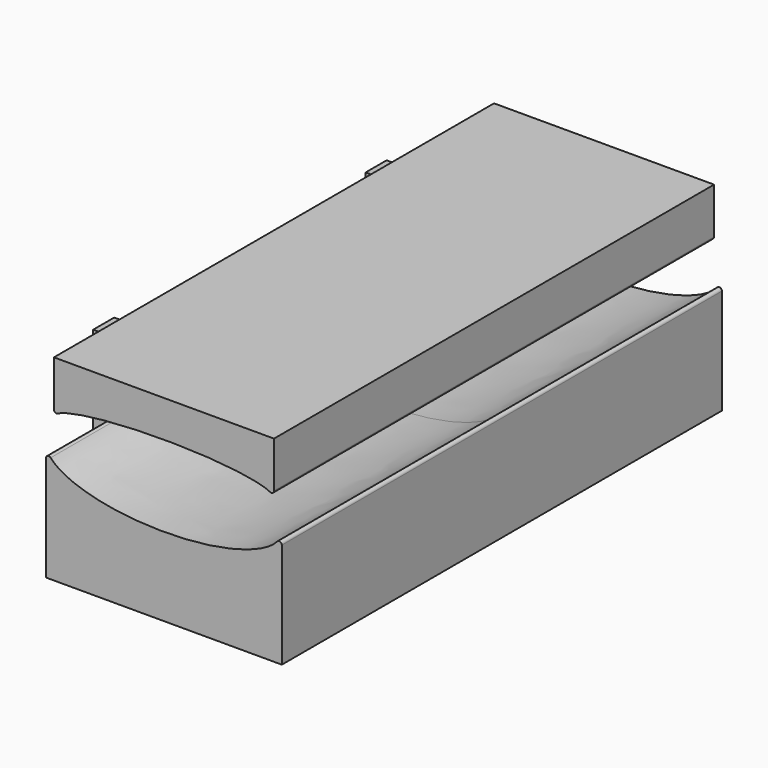
from build123d import *

# Parameters (mm, degrees)
F1_DEPTH      = 1050
F1_DEPTH_BACK = 1050
F2_W          = 100
F2_H          = 256.5368058683
F2_H_2        = 243.4631941317
F3_DEPTH      = 100
F4_R          = 20
F5_DEPTH      = 1400
F7_DEPTH      = 1050
F7_DEPTH_BACK = 1050
F8_R          = 20
F9_DEPTH      = 15


with BuildPart() as f1:
    # F0 (on Front) → F1 (new body, two sides)
    with BuildSketch(Plane.XZ) as f1_sk:
        with BuildLine():
            Line((-450, 0), (0, 0))
            Line((0, 0), (450, 0))
            Line((450, 0), (450, 401.9604354327))
            ThreePointArc((450, 401.9604354327), (443.487330164, 411.3326565317), (432.4322943345, 408.4972413011))
            add(Edge.make_bspline(
                [(-432.4322943345, 408.4972413011), (4.257e-07, -92.1326371016), (432.4322943997, 408.4972413765)],
                knots=[3.4219354285, 3.4219354285, 3.4219354285, 6.0028425328, 6.0028425328, 6.0028425328], degree=2, weights=[1, 0.2766850577, 1]))
            ThreePointArc((-432.4322943345, 408.4972413011), (-443.487330164, 411.3326565317), (-450, 401.9604354327))
            Line((-450, 401.9604354327), (-450, 0))
        make_face()
    extrude(amount=F1_DEPTH)
    extrude(f1_sk.sketch, amount=-F1_DEPTH_BACK)

    # F2 (on face) → F3 (join)
    with BuildSketch(Plane(origin=(-450, 0, 0), x_dir=(0, -1, 0), z_dir=(-1, 0, 0))):
        with Locations((-650, 530.2288383669)):
            Rectangle(F2_W, F2_H)
        with Locations((-650, 280.2288383669)):
            Rectangle(F2_W, F2_H_2)
        with Locations((650, 280.2288383669)):
            Rectangle(F2_W, F2_H_2)
        with Locations((650, 530.2288383669)):
            Rectangle(F2_W, F2_H)
    extrude(amount=F3_DEPTH)

    # F4 (on face) → F5 (cut, through all)
    with BuildSketch(Plane.XZ.offset(700)):
        with Locations((-500, 608.4972413011)):
            Circle(F4_R)
    extrude(amount=-F5_DEPTH, mode=Mode.SUBTRACT)



with BuildPart() as f7:
    # F6 (on Front) → F7 (new body, two sides)
    with BuildSketch(Plane.XZ) as f7_sk:
        with BuildLine():
            Line((420, 750), (0, 750))
            Line((0, 750), (-420, 750))
            Line((-420, 750), (-420, 574.5617983004))
            ThreePointArc((-420, 574.5617983004), (-415.1679597445, 566.0007123834), (-405.3415615842, 565.7131288227))
            add(Edge.make_bspline(
                [(405.3415615842, 565.7131288227), (0, 779.1077760916), (-405.3415615842, 565.7131288227)],
                knots=[0.2649753519, 0.2649753519, 0.2649753519, 2.8766173017, 2.8766173017, 2.8766173017], degree=2, weights=[1, 0.2618854804, 1]))
            ThreePointArc((405.3415615842, 565.7131288227), (415.1679597445, 566.0007123834), (420, 574.5617983004))
            Line((420, 574.5617983004), (420, 750))
        make_face()
    extrude(amount=F7_DEPTH)
    extrude(f7_sk.sketch, amount=-F7_DEPTH_BACK)


with BuildPart() as f1_1:
    add(f1.part)

    add(f7.part)  # F9 merges F7
    # F8 (on face) → F9 (join)
    with BuildSketch(Plane.XZ.offset(700)):
        Polygon((-420, 600), (-420, 710), (-509.2053947965, 658.4972413011), (-450, 658.4972413011), (-450, 582.6794919243), align=None)
        with BuildLine():
            Line((-450, 658.4972413011), (-509.2053947965, 658.4972413011))
            Line((-509.2053947965, 658.4972413011), (-530, 646.4914703891))
            ThreePointArc((-530, 646.4914703891), (-537.3205080757, 639.1709623135), (-540, 629.1709623135))
            Line((-540, 629.1709623135), (-540, 565.3589838486))
            ThreePointArc((-540, 565.3589838486), (-530, 548.0384757729), (-510, 548.0384757729))
            Line((-510, 548.0384757729), (-450, 582.6794919243))
            Line((-450, 582.6794919243), (-450, 658.4972413011))
        make_face()
        with Locations((-500, 608.4972413011)):
            Circle(F8_R, mode=Mode.SUBTRACT)
    extrude(amount=F9_DEPTH)

    # F10: F1 across plane


with BuildPart() as f1_2:
    add(f1_1.part)
    add(f1_1.part.mirror(Plane.XZ))


solid = f1_2.part
